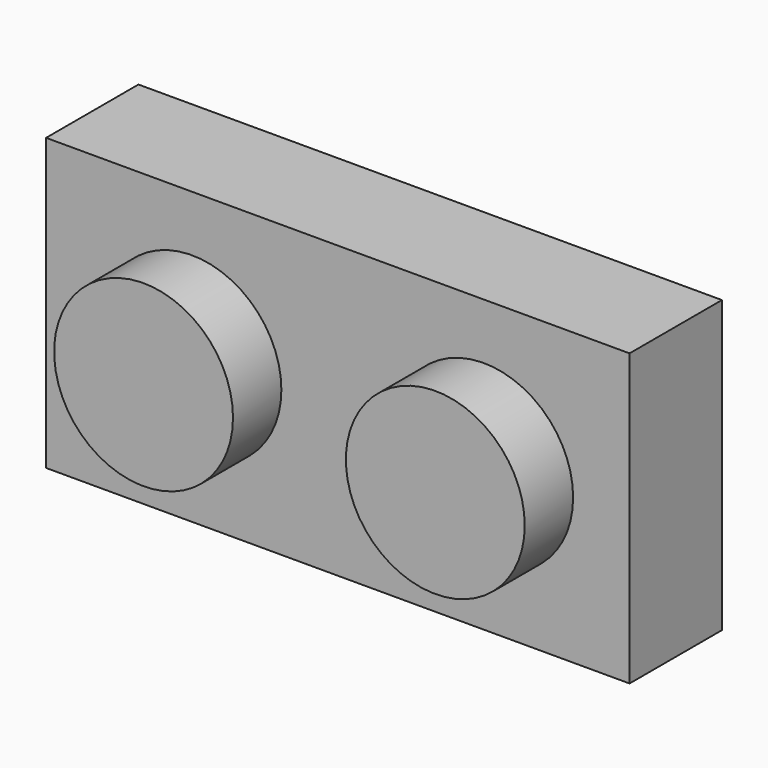
from build123d import *

# Parameters (mm, degrees)
F0_R     = 2.44
F1_DEPTH = 3.15
F2_DEPTH = 4.8
F3_W     = 12.82
F3_H     = 4.85
F3_R     = 1.53
F3_R_2   = 0.705
F4_DEPTH = 2.14


with BuildPart() as f1:
    # F0 (on Front) → F1 (new body)
    with BuildSketch(Plane.XZ):
        Polygon((2.131469, 8.320145), (-13.788531, 8.320145), (-13.788531, 0.390145), (-10.388192, 0.390145), (-7.928192, 0.390145), (-3.748192, 0.390145), (-1.288192, 0.390145), (2.131469, 0.390145), align=None)
        with Locations((-9.808531, 4.355145)):
            Circle(F0_R, mode=Mode.SUBTRACT)
        with Locations((-1.848531, 4.355145)):
            Circle(F0_R, mode=Mode.SUBTRACT)
        Polygon((2.131469, 8.320145), (-13.788531, 8.320145), (-13.788531, 0.390145), (-10.388192, 0.390145), (-7.928192, 0.390145), (-3.748192, 0.390145), (-1.288192, 0.390145), (2.131469, 0.390145), align=None)
        with Locations((-9.808531, 4.355145)):
            Circle(F0_R, mode=Mode.SUBTRACT)
        with Locations((-1.848531, 4.355145)):
            Circle(F0_R, mode=Mode.SUBTRACT)
    extrude(amount=F1_DEPTH)

    # F0 (on Front) → F2 (join)
    with BuildSketch(Plane.XZ):
        with Locations((-9.808531, 4.355145)):
            Circle(F0_R)
        with Locations((-1.848531, 4.355145)):
            Circle(F0_R)
    extrude(amount=F2_DEPTH)

    # F3 (on face) → F4 (cut)
    with BuildSketch(Plane(origin=(0, 0, 0), x_dir=(-1, 0, 0), z_dir=(0, 1, 0))):
        with Locations((5.828531, 4.355145)):
            Rectangle(F3_W, F3_H)
        with Locations((5.828531, 4.355145)):
            Circle(F3_R, mode=Mode.SUBTRACT)
        with Locations((5.828531, 4.355145)):
            Circle(F3_R_2)
    extrude(amount=-F4_DEPTH, mode=Mode.SUBTRACT)


solid = f1.part
